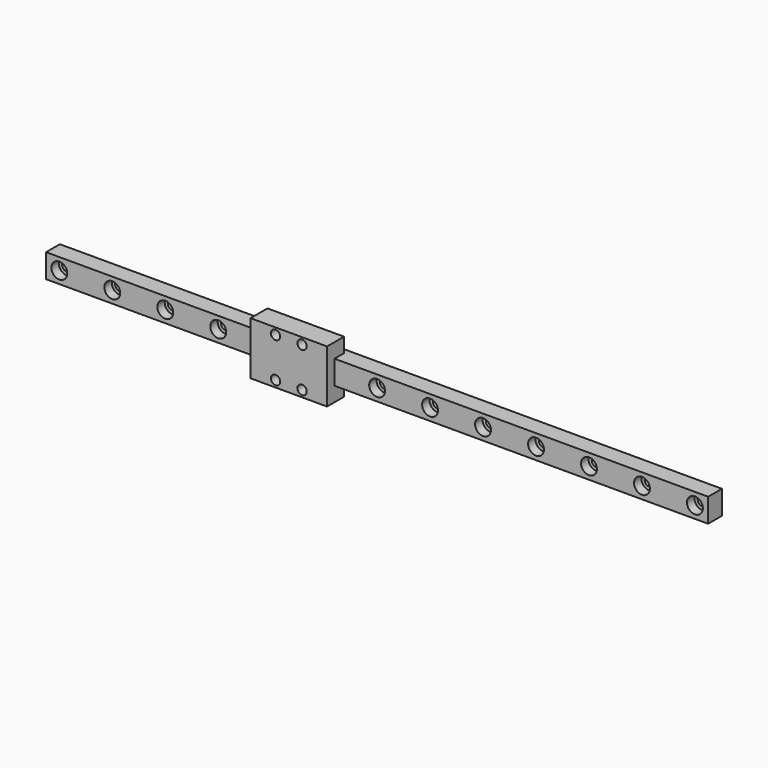
from build123d import *

# Parameters (mm, degrees)
SKETCH006_W             = 9
SKETCH006_H             = 250
PAD003_DEPTH            = 6.5
SKETCH008_R             = 1.75
POCKET003_DEPTH         = 6.5
LINEARPATTERN002_COUNT  = 13
LINEARPATTERN002_PITCH  = 20
SKETCH009_R             = 3
POCKET002_DEPTH         = 3.5
LINEARPATTERN003_COUNT  = 13
LINEARPATTERN003_PITCH  = 20
SKETCH007_W             = 20
SKETCH007_H             = 28.9
SKETCH007_R             = 1.75
PAD004_DEPTH            = 8
BODY002_PITCH_ANGLE     = 90
BODY002_PLACEMENT_ANGLE = -90


with BuildPart() as part:
    # Sketch006 → Pad003 (new body)
    with BuildSketch(Plane.XY):
        with Locations((0, 125)):
            Rectangle(SKETCH006_W, SKETCH006_H)
    extrude(amount=-PAD003_DEPTH)

    # Sketch008 → Pocket003 (cut)
    with BuildSketch(Plane.XY):
        with Locations((0, 5)):
            Circle(SKETCH008_R)
    pocket003 = extrude(amount=-POCKET003_DEPTH, mode=Mode.SUBTRACT)

    # LinearPattern002: Pocket003 ×13
    with Locations(*[(0, i * LINEARPATTERN002_PITCH, 0) for i in range(1, LINEARPATTERN002_COUNT)]):
        add(pocket003, mode=Mode.SUBTRACT)

    # Sketch009 → Pocket002 (cut)
    with BuildSketch(Plane.XY):
        with Locations((0, 5)):
            Circle(SKETCH009_R)
    pocket002 = extrude(amount=-POCKET002_DEPTH, mode=Mode.SUBTRACT)

    # LinearPattern003: Pocket002 ×13
    with Locations(*[(0, i * LINEARPATTERN003_PITCH, 0) for i in range(1, LINEARPATTERN003_COUNT)]):
        add(pocket002, mode=Mode.SUBTRACT)

    # Sketch007 → Pad004 (join)
    with BuildSketch(Plane.XY.offset(-4.5)):
        with Locations((0, 94.45)):
            Rectangle(SKETCH007_W, SKETCH007_H)
        with Locations((-7.5, 99.45)):
            Circle(SKETCH007_R, mode=Mode.SUBTRACT)
        with Locations((7.5, 99.45)):
            Circle(SKETCH007_R, mode=Mode.SUBTRACT)
        with Locations((7.5, 89.45)):
            Circle(SKETCH007_R, mode=Mode.SUBTRACT)
        with Locations((-7.5, 89.45)):
            Circle(SKETCH007_R, mode=Mode.SUBTRACT)
    extrude(amount=PAD004_DEPTH)


with BuildPart() as part_1:
    # Body002 pitch: moved
    add(part.part.rotate(Axis((0, 0, 0), (0, 1, 0)), BODY002_PITCH_ANGLE))


with BuildPart() as part_2:
    # Body002 placement: moved
    add(part_1.part.moved(Location((-125, 0, 0))).rotate(Axis((-125, 0, 0), (0, 0, 1)), BODY002_PLACEMENT_ANGLE))


solid = part_2.part
